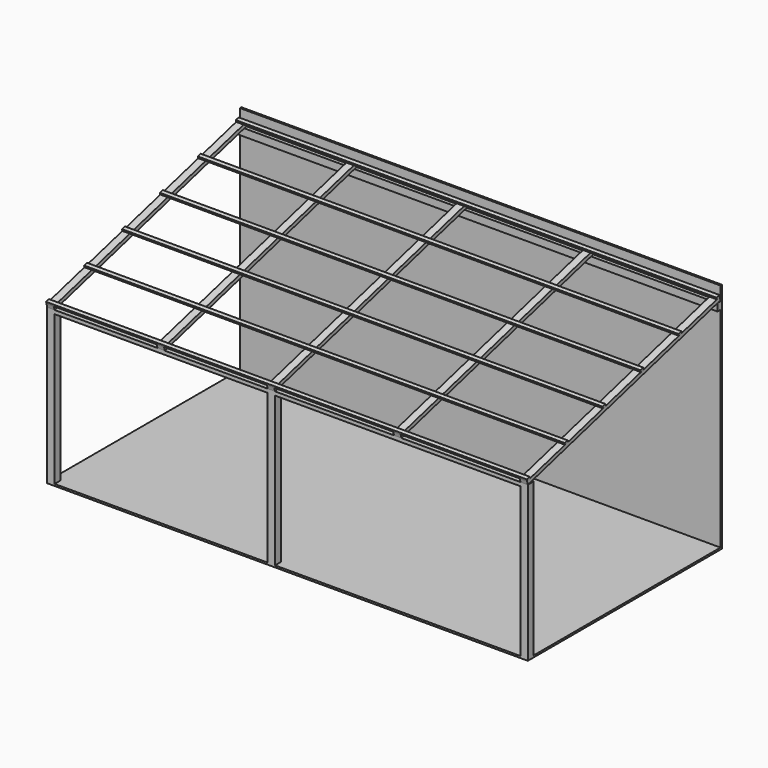
from build123d import *

# Parameters (mm, degrees)
F0_W      = 6616.7
F0_H      = 3340.1
F1_DEPTH  = 25.4
F2_W      = 6616.7
F2_H      = 25.4
F3_DEPTH  = 3175
F4_W      = 101.6
F4_H      = 101.6
F5_DEPTH  = 2057.4
F6_W      = 101.6
F6_H      = 101.6
F6_W_2    = 6515.1
F7_DEPTH  = 50.8
F8_W      = 50.8
F8_H      = 101.6
F9_DEPTH  = 6616.7
F10_W     = 1416.05
F10_H     = 3431.6299552053
F10_W_2   = 1638.3
F11_DEPTH = 50.8
F12_W     = 101.6
F12_H     = 50.8
F12_W_2   = 6515.1
F13_DEPTH = 25.4


with BuildPart() as f1:
    # F0 (on Top) → F1 (new body)
    with BuildSketch(Plane.XY):
        with Locations((-3308.35, -1670.05)):
            Rectangle(F0_W, F0_H)
    extrude(amount=F1_DEPTH)

    # F2 (on face) → F3 (join)
    with BuildSketch(Plane.XY.offset(25.4)):
        with Locations((-3308.35, -12.7)):
            Rectangle(F2_W, F2_H)
    extrude(amount=F3_DEPTH)

    # F4 (on face) → F5 (join)
    with BuildSketch(Plane.XY.offset(25.4)):
        with Locations((-6565.9, -3289.3)):
            Rectangle(F4_W, F4_H)
        with Locations((-3530.6, -3289.3)):
            Rectangle(F4_W, F4_H)
        with Locations((-50.8, -3289.3)):
            Rectangle(F4_W, F4_H)
    extrude(amount=F5_DEPTH)

    # F6 (on face) → F7 (join)
    with BuildSketch(Plane.XY.offset(2082.8)):
        with Locations((-6565.9, -3289.3)):
            Rectangle(F6_W, F6_H)
        with Locations((-3257.55, -3289.3)):
            Rectangle(F6_W_2, F6_H)
    extrude(amount=F7_DEPTH)

    # F8 (on face) → F9 (join)
    with BuildSketch(Plane(origin=(-6616.7, 0, 0), x_dir=(0, -1, 0), z_dir=(-1, 0, 0))):
        with Locations((50.8, 2957.3593691759)):
            Rectangle(F8_W, F8_H)
        Polygon((25.4, 3021.7711881514), (76.2, 3008.1593691759), (3340.1, 2133.6), (3353.2480074912, 2182.6690319755), (38.5480074912, 3070.8402201269), align=None)
    extrude(amount=-F9_DEPTH)

    # F10 (on face) → F11 (cut)
    with BuildSketch(Plane(origin=(0, -770.292281901, 2874.7699327327), x_dir=(1, 0, 0), z_dir=(0, -0.2588190451, 0.9659258263))):
        with Locations((-5807.075, -958.2575601547)):
            Rectangle(F10_W, F10_H)
        with Locations((-4289.425, -958.2575601547)):
            Rectangle(F10_W, F10_H)
        with Locations((-2660.65, -958.2575601547)):
            Rectangle(F10_W_2, F10_H)
        with Locations((-920.75, -958.2575601547)):
            Rectangle(F10_W_2, F10_H)
    extrude(amount=-F11_DEPTH, mode=Mode.SUBTRACT)


with BuildPart() as f13:
    # F12 (on face) → F13 (new body)
    with BuildSketch(Plane(origin=(0, -770.292281901, 2874.7699327327), x_dir=(1, 0, 0), z_dir=(0, -0.2588190451, 0.9659258263))):
        with Locations((-6565.9, 732.1574174479)):
            Rectangle(F12_W, F12_H)
        with Locations((-3257.55, 732.1574174479)):
            Rectangle(F12_W_2, F12_H)
    extrude(amount=F13_DEPTH)


with BuildPart() as f13b:
    # F12 (on face) → F13, piece 2 (new body)
    with BuildSketch(Plane(origin=(0, -770.292281901, 2874.7699327327), x_dir=(1, 0, 0), z_dir=(0, -0.2588190451, 0.9659258263))):
        with Locations((-6565.9, 56.0094174479)):
            Rectangle(F12_W, F12_H)
        with Locations((-3257.55, 56.0094174479)):
            Rectangle(F12_W_2, F12_H)
    extrude(amount=F13_DEPTH)


with BuildPart() as f13c:
    # F12 (on face) → F13, piece 3 (new body)
    with BuildSketch(Plane(origin=(0, -770.292281901, 2874.7699327327), x_dir=(1, 0, 0), z_dir=(0, -0.2588190451, 0.9659258263))):
        with Locations((-6565.9, -620.1385825521)):
            Rectangle(F12_W, F12_H)
        with Locations((-3257.55, -620.1385825521)):
            Rectangle(F12_W_2, F12_H)
    extrude(amount=F13_DEPTH)


with BuildPart() as f13d:
    # F12 (on face) → F13, piece 4 (new body)
    with BuildSketch(Plane(origin=(0, -770.292281901, 2874.7699327327), x_dir=(1, 0, 0), z_dir=(0, -0.2588190451, 0.9659258263))):
        with Locations((-6565.9, -2648.6725377574)):
            Rectangle(F12_W, F12_H)
        with Locations((-3257.55, -2648.6725377574)):
            Rectangle(F12_W_2, F12_H)
    extrude(amount=F13_DEPTH)


with BuildPart() as f13e:
    # F12 (on face) → F13, piece 5 (new body)
    with BuildSketch(Plane(origin=(0, -770.292281901, 2874.7699327327), x_dir=(1, 0, 0), z_dir=(0, -0.2588190451, 0.9659258263))):
        with Locations((-6565.9, -1972.4345825521)):
            Rectangle(F12_W, F12_H)
        with Locations((-3257.55, -1972.4345825521)):
            Rectangle(F12_W_2, F12_H)
    extrude(amount=F13_DEPTH)


with BuildPart() as f13f:
    # F12 (on face) → F13, piece 6 (new body)
    with BuildSketch(Plane(origin=(0, -770.292281901, 2874.7699327327), x_dir=(1, 0, 0), z_dir=(0, -0.2588190451, 0.9659258263))):
        with Locations((-6565.9, -1296.2865825521)):
            Rectangle(F12_W, F12_H)
        with Locations((-3257.55, -1296.2865825521)):
            Rectangle(F12_W_2, F12_H)
    extrude(amount=F13_DEPTH)


solid = Compound([f1.part, f13.part, f13b.part, f13c.part, f13d.part, f13e.part, f13f.part])
